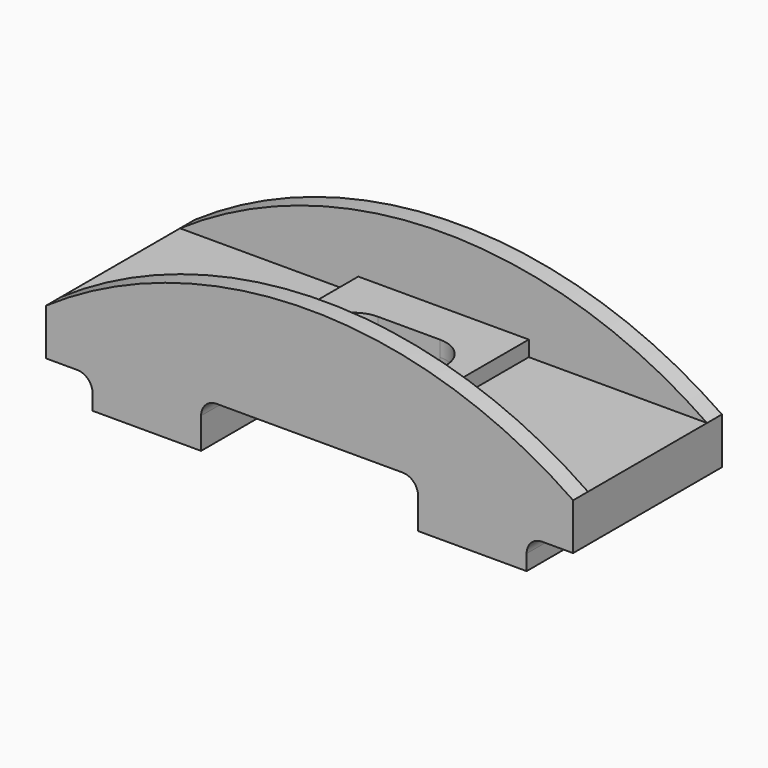
from build123d import *

# Parameters (mm, degrees)
F0_W      = 150
F0_H      = 100
F1_DEPTH  = 600
F2_W      = 150
F2_H      = 100
F3_DEPTH  = 600.001
F4_W      = 150
F4_H      = 100
F5_DEPTH  = 600.001
F6_R      = 50
F7_R      = 50
F9_DEPTH  = 60
F11_DEPTH = 60
F12_W     = 700
F12_H     = 300
F13_DEPTH = 600.001
F14_R     = 50
F15_R     = 50
F16_W     = 550
F16_H     = 480
F17_DEPTH = 50
F18_DEPTH = 25
F19_DEPTH = 250.001


with BuildPart() as f1:
    # F0 (on Front) → F1 (new body)
    with BuildSketch(Plane.XZ):
        with Locations((-775, -75)):
            Rectangle(F0_W, F0_H)
        Polygon((-700, -25), (-700, -125), (850, -125), (850, 125), (-850, 125), (-850, -25), align=None)
    extrude(amount=F1_DEPTH)

    # F2 (on face) → F3 (cut, through all)
    with BuildSketch(Plane.XZ.offset(600)):
        with Locations((-775, -75)):
            Rectangle(F2_W, F2_H)
    extrude(amount=-F3_DEPTH, mode=Mode.SUBTRACT)

    # F4 (on face) → F5 (cut, through all)
    with BuildSketch(Plane.XZ.offset(600)):
        with Locations((775, -75)):
            Rectangle(F4_W, F4_H)
    extrude(amount=-F5_DEPTH, mode=Mode.SUBTRACT)

    # F6
    f6_edges = [f1.edges().sort_by_distance(p)[0] for p in [
        (-700, -300, -25),
    ]]
    fillet(f6_edges, radius=F6_R)

    # F7
    f7_edges = [f1.edges().sort_by_distance(p)[0] for p in [
        (700, -300, -25),
    ]]
    fillet(f7_edges, radius=F7_R)

    # F8 (on face) → F9 (join)
    with BuildSketch(Plane(origin=(0, 0, 0), x_dir=(-1, 0, 0), z_dir=(0, 1, 0))):
        with BuildLine():
            Line((-850, 125), (850, 125))
            ThreePointArc((850, 125), (0, 389.079291), (-850, 125))
        make_face()
    extrude(amount=-F9_DEPTH)

    # F10 (on face) → F11 (join)
    with BuildSketch(Plane.XZ.offset(600)):
        with BuildLine():
            Line((850, -25), (850, 125))
            ThreePointArc((850, 125), (0, 389.079291), (-850, 125))
            Line((-850, 125), (-850, -25))
            Line((-850, -25), (-750, -25))
            ThreePointArc((-750, -25), (-714.644661, -39.644661), (-700, -75))
            Line((-700, -75), (-700, -125))
            Line((-700, -125), (700, -125))
            Line((700, -125), (700, -75))
            ThreePointArc((700, -75), (714.644661, -39.644661), (750, -25))
            Line((750, -25), (850, -25))
        make_face()
    extrude(amount=-F11_DEPTH)

    # F12 (on face) → F13 (cut, through all)
    with BuildSketch(Plane.XZ.offset(600)):
        with Locations((0, -125)):
            Rectangle(F12_W, F12_H)
    extrude(amount=-F13_DEPTH, mode=Mode.SUBTRACT)

    # F14
    f14_edges = [f1.edges().sort_by_distance(p)[0] for p in [
        (350, -300, 25),
    ]]
    fillet(f14_edges, radius=F14_R)

    # F15
    f15_edges = [f1.edges().sort_by_distance(p)[0] for p in [
        (-350, -300, 25),
    ]]
    fillet(f15_edges, radius=F15_R)

    # F16 (on face) → F17 (join)
    with BuildSketch(Plane.XY.offset(125)):
        with Locations((0, -300)):
            Rectangle(F16_W, F16_H)
        with BuildLine():
            Line((100, -400), (-100, -400))
            ThreePointArc((-100, -400), (-200, -300), (-100, -200))
            Line((-100, -200), (100, -200))
            ThreePointArc((100, -200), (170.710678, -229.289322), (200, -300))
            ThreePointArc((200, -300), (170.710678, -370.710678), (100, -400))
        make_face(mode=Mode.SUBTRACT)
    extrude(amount=F17_DEPTH)

    # F16 (on face) → F18 (join)
    with BuildSketch(Plane.XY.offset(125)):
        with Locations((0, -300)):
            Rectangle(F16_W, F16_H)
        with BuildLine():
            Line((100, -400), (-100, -400))
            ThreePointArc((-100, -400), (-200, -300), (-100, -200))
            Line((-100, -200), (100, -200))
            ThreePointArc((100, -200), (170.710678, -229.289322), (200, -300))
            ThreePointArc((200, -300), (170.710678, -370.710678), (100, -400))
        make_face(mode=Mode.SUBTRACT)
    extrude(amount=F18_DEPTH)

    # F17_face (on face) → F19 (cut, through all)
    with BuildSketch(Plane(origin=(0, -300, 125), x_dir=(1, 0, 0), z_dir=(0, 0, 1))):
        with BuildLine():
            Line((100, 100), (-100, 100))
            ThreePointArc((-100, 100), (-200, 0), (-100, -100))
            Line((-100, -100), (100, -100))
            ThreePointArc((100, -100), (200, 0), (100, 100))
        make_face()
    extrude(amount=-F19_DEPTH, mode=Mode.SUBTRACT)


solid = f1.part
